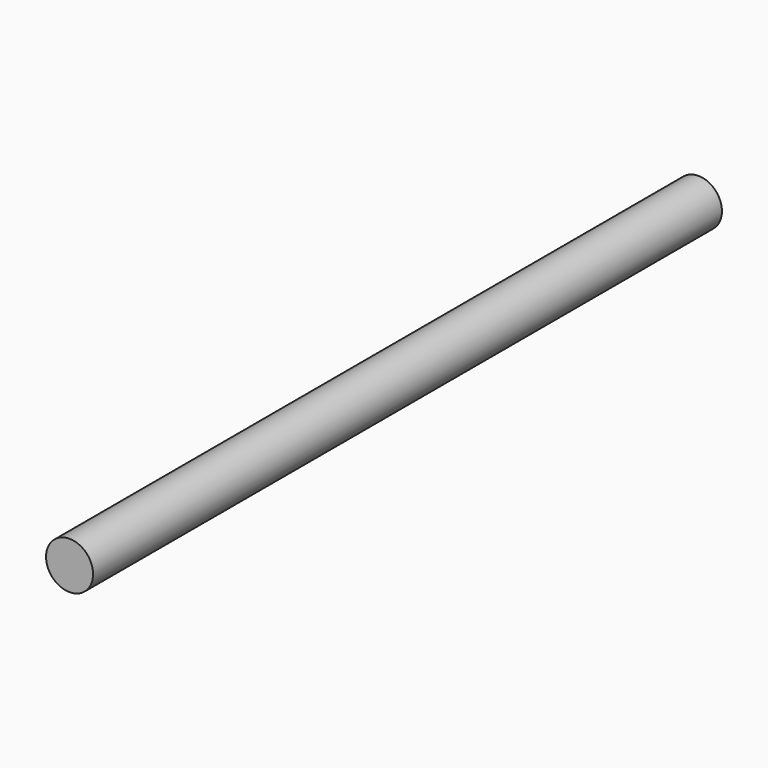
from build123d import *

# Parameters (mm, degrees)
F0_W   = 1.9
F0_H   = 35.4228537479
F0_H_2 = 28.0771462521


with BuildPart() as f1:
    # F0 (on Top) → F1 (revolve)
    with BuildSketch(Plane.XY):
        with Locations((-10.5620018413, 54.8675996496)):
            Rectangle(F0_W, F0_H)
        with Locations((-10.5620018413, 23.1175996496)):
            Rectangle(F0_W, F0_H_2)
    revolve(axis=Axis((-11.5120018413, 40.8290265235, 0), (0, -1, 0)))


solid = f1.part
